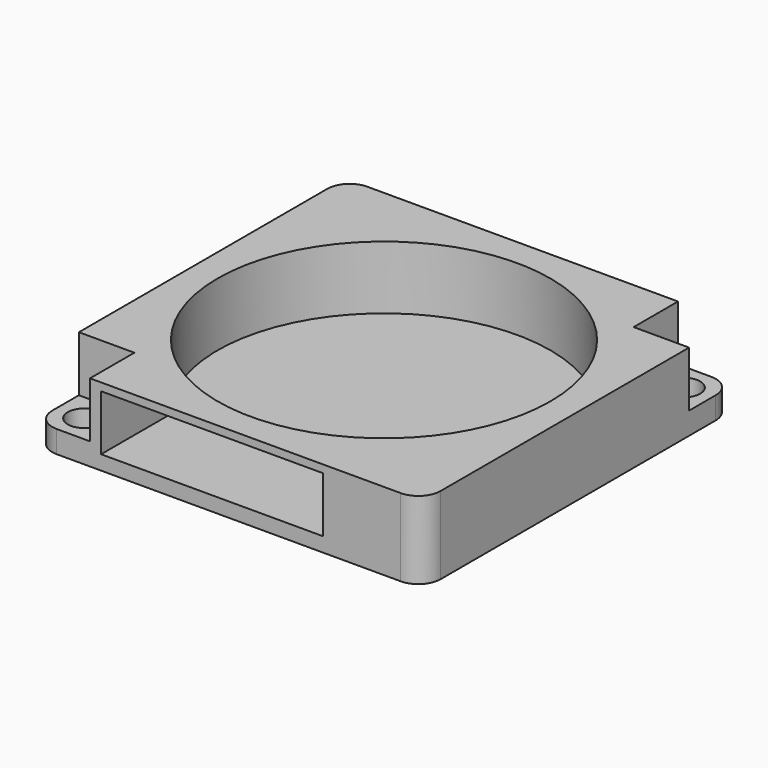
from build123d import *

# Parameters (mm, degrees)
F0_W     = 35
F0_H     = 35
F1_DEPTH = 7
F2_W     = 5
F2_H     = 5
F3_DEPTH = 5
F4_R     = 15
F5_DEPTH = 5.7
F6_R     = 1.5
F7_DEPTH = 25
F8_W     = 20
F8_H     = 5
F9_DEPTH = 10
F10_R    = 2


with BuildPart() as f1:
    # F0 (on Top) → F1 (new body)
    with BuildSketch(Plane.XY):
        with Locations((-9.063598, -1.130828)):
            Rectangle(F0_W, F0_H)
    extrude(amount=F1_DEPTH)

    # F2 (on face) → F3 (cut)
    with BuildSketch(Plane.XY.offset(7)):
        with Locations((-24.063598, -16.130828)):
            Rectangle(F2_W, F2_H)
        with Locations((5.936402, 13.869172)):
            Rectangle(F2_W, F2_H)
    extrude(amount=-F3_DEPTH, mode=Mode.SUBTRACT)

    # F4 (on face) → F5 (cut)
    with BuildSketch(Plane.XY.offset(7)):
        with Locations((-9.063598, -1.130828)):
            Circle(F4_R)
    extrude(amount=-F5_DEPTH, mode=Mode.SUBTRACT)

    # F6 (on face) → F7 (cut)
    with BuildSketch(Plane.XY.offset(2)):
        with Locations((-24.063598, -16.130828)):
            Circle(F6_R)
        with Locations((5.936402, 13.869172)):
            Circle(F6_R)
    extrude(amount=-F7_DEPTH, mode=Mode.SUBTRACT)

    # F8 (on face) → F9 (cut)
    with BuildSketch(Plane.XZ.offset(18.630828)):
        with Locations((-10.563598, 3.8)):
            Rectangle(F8_W, F8_H)
    extrude(amount=-F9_DEPTH, mode=Mode.SUBTRACT)

    # F10
    f10_edges = [f1.edges().sort_by_distance(p)[0] for p in [
        (8.436402, -18.630828, 3.5),
        (-26.563598, -18.630828, 1),
        (8.436402, 16.369172, 1),
        (-26.563598, 16.369172, 3.5),
    ]]
    fillet(f10_edges, radius=F10_R)


solid = f1.part
